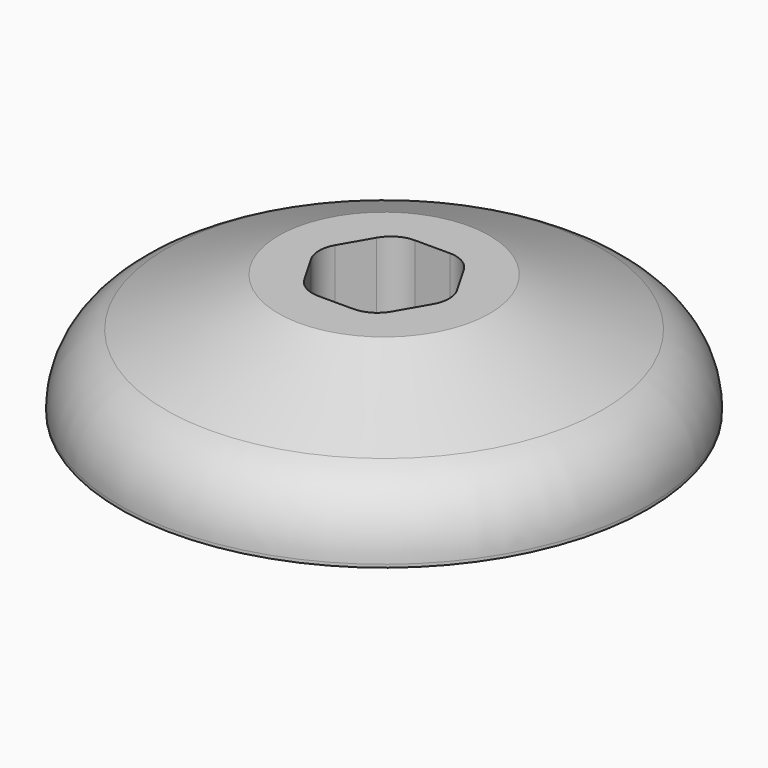
from build123d import *

# Parameters (mm, degrees)
F3_DEPTH = 25
F4_R     = 2


with BuildPart() as f1:
    # F0 (on Front) → F1 (revolve)
    with BuildSketch(Plane.XZ):
        with BuildLine():
            Line((0, 8), (0, 0))
            Line((0, 0), (17.5, 0))
            Line((17.5, 0), (17.5, 0.203019))
            ThreePointArc((17.5, 0.203019), (16.674205, 2.955474), (14.469596, 4.798744))
            Line((14.469596, 4.798744), (7, 8))
            Line((7, 8), (0, 8))
        make_face()
    revolve(axis=Axis((0, 0, -4.491808), (0, 0, -1)))

    # F2 (on face) → F3 (cut)
    with BuildSketch(Plane.XY.offset(8)):
        Polygon((2.309401, 4), (-2.309401, 4), (-4.618802, 0), (-2.309401, -4), (2.309401, -4), (4.618802, 0), align=None)
    extrude(amount=-F3_DEPTH, mode=Mode.SUBTRACT)

    # F4
    f4_edges = [f1.edges().sort_by_distance(p)[0] for p in [
        (-2.309401, 4, 4),
        (-4.618802, 0, 4),
        (2.309401, 4, 4),
        (4.618802, 0, 4),
        (-2.309401, -4, 4),
        (2.309401, -4, 4),
    ]]
    fillet(f4_edges, radius=F4_R)


solid = f1.part
